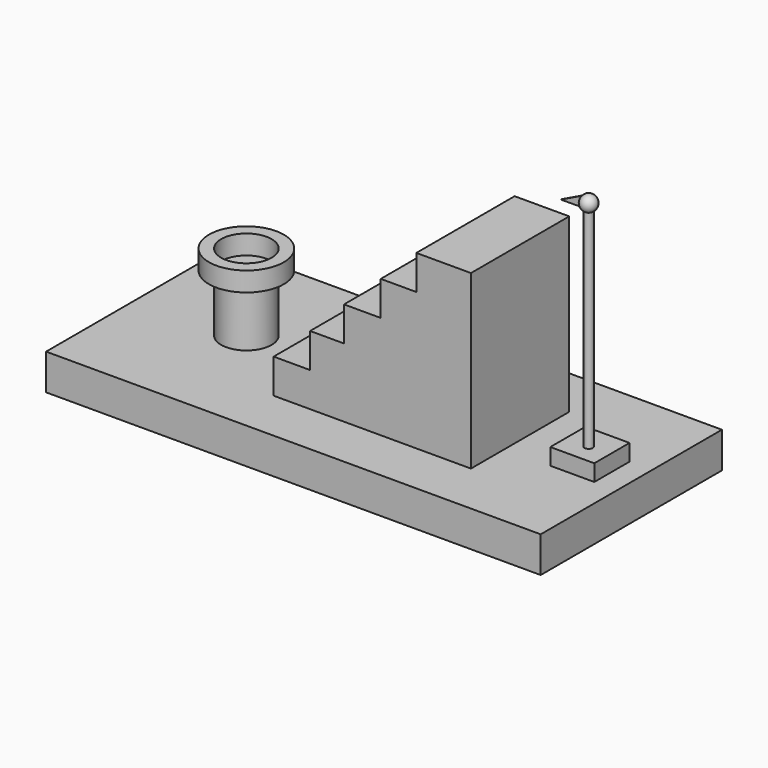
from build123d import *

# Parameters (mm, degrees)
F0_W      = 175.1696318388
F0_H      = 80.2404098213
F1_DEPTH  = 12.7
F2_R      = 8.9444525912
F3_DEPTH  = 20.32
F4_R      = 13.2478255096
F4_R_2    = 8.9444525912
F5_DEPTH  = 6.858
F6_W      = 69.8704849929
F6_H      = 43.5077436268
F7_DEPTH  = 12.192
F8_W      = 56.965646334
F8_H      = 43.5077436268
F9_DEPTH  = 12.192
F10_W     = 44.9530445039
F10_H     = 43.5077436268
F11_DEPTH = 12.192
F12_W     = 31.9435857236
F12_H     = 43.5077436268
F13_DEPTH = 12.192
F14_W     = 19.3327367306
F14_H     = 43.5077436268
F15_DEPTH = 12.192
F16_W     = 15.5733302236
F16_H     = 15.6030612998
F17_DEPTH = 5.842
F18_W     = 1.4748424292
F18_H     = 74.1106420755
F23_DEPTH = 0.254


with BuildPart() as f1:
    # F0 (on Top) → F1 (new body)
    with BuildSketch(Plane.XY):
        with Locations((0.9169280529, -0.5127806216)):
            Rectangle(F0_W, F0_H)
    extrude(amount=F1_DEPTH)

    # F6 (on face) → F7 (join)
    with BuildSketch(Plane.XY.offset(12.7)):
        with Locations((13.9139452949, -0.1843553036)):
            Rectangle(F6_W, F6_H)
    extrude(amount=F7_DEPTH)

    # F8 (on face) → F9 (join)
    with BuildSketch(Plane.XY.offset(24.892)):
        with Locations((20.3663646244, -0.1843553036)):
            Rectangle(F8_W, F8_H)
    extrude(amount=F9_DEPTH)

    # F10 (on face) → F11 (join)
    with BuildSketch(Plane.XY.offset(37.084)):
        with Locations((26.3726655394, -0.1843553036)):
            Rectangle(F10_W, F10_H)
    extrude(amount=F11_DEPTH)

    # F12 (on face) → F13 (join)
    with BuildSketch(Plane.XY.offset(49.276)):
        with Locations((32.8773949295, -0.1843553036)):
            Rectangle(F12_W, F12_H)
    extrude(amount=F13_DEPTH)

    # F14 (on face) → F15 (join)
    with BuildSketch(Plane.XY.offset(61.468)):
        with Locations((39.1828194261, -0.1843553036)):
            Rectangle(F14_W, F14_H)
    extrude(amount=F15_DEPTH)

    # F16 (on face) → F17 (join)
    with BuildSketch(Plane.XY.offset(12.7)):
        with Locations((72.7165900171, 0.9013314266)):
            Rectangle(F16_W, F16_H)
    extrude(amount=F17_DEPTH)


with BuildPart() as f3:
    # F2 (on face) → F3 (new body)
    with BuildSketch(Plane.XY.offset(12.7)):
        with Locations((-49.411945045, 1.4748387039)):
            Circle(F2_R)
    extrude(amount=F3_DEPTH)


with BuildPart() as f5:
    # F4 (on face) → F5 (new body)
    with BuildSketch(Plane.XY.offset(33.02)):
        with Locations((-49.411945045, 1.4748387039)):
            Circle(F4_R)
        with Locations((-49.411945045, 1.4748387039)):
            Circle(F4_R_2, mode=Mode.SUBTRACT)
    extrude(amount=F5_DEPTH)


with BuildPart() as f19:
    # F18 (on Front) → F19 (revolve)
    with BuildSketch(Plane.XZ):
        with Locations((72.2622573376, 55.3064495325)):
            Rectangle(F18_W, F18_H)
    revolve(axis=Axis((72.9996785522, 0, 55.3064495325), (0, 0, -1)))


with BuildPart() as f21:
    # F20 (on Front) → F21 (revolve)
    with BuildSketch(Plane.XZ):
        with BuildLine():
            ThreePointArc((72.9960277677, 97.2278043628), (70.2399834991, 94.4717600942), (72.9960277677, 91.7157158256))
            Line((72.9960277677, 91.7157158256), (72.9960277677, 97.2278043628))
        make_face()
    revolve(axis=Axis((72.9960277677, 0, 94.4717600942), (0, 0, 1)))


with BuildPart() as f23:
    # F22 (on Front) → F23 (new body)
    with BuildSketch(Plane.XZ):
        Polygon((73.0219855905, 92.5079847229), (73.0219855905, 97.1758961678), (63.3675009012, 92.4784243107), align=None)
    extrude(amount=F23_DEPTH)


solid = Compound([f1.part, f3.part, f5.part, f19.part, f21.part, f23.part])
